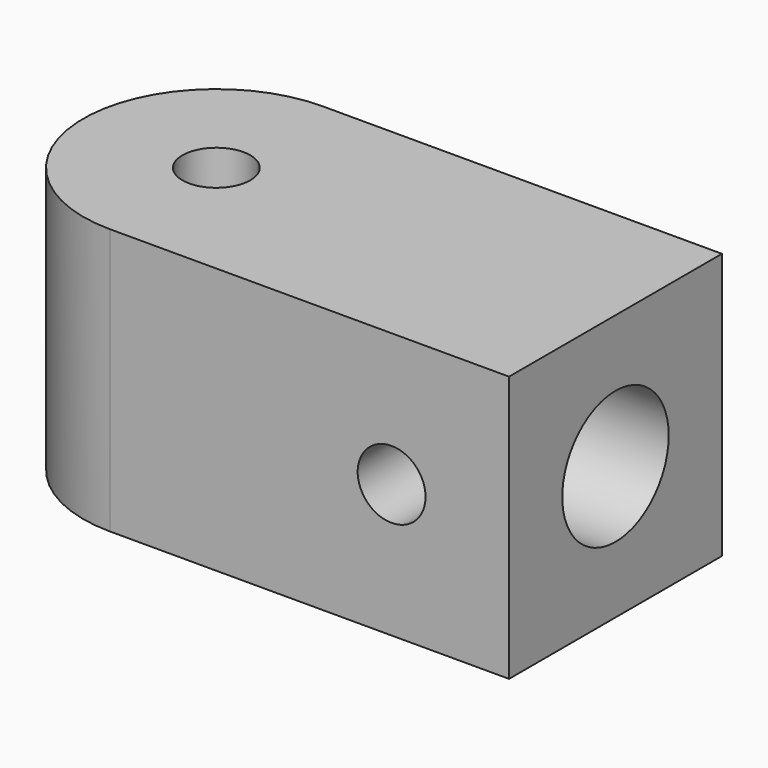
from build123d import *

# Parameters (mm, degrees)
SKETCH_R        = 2.55
PAD_DEPTH       = 20
SKETCH001_R     = 5
POCKET_DEPTH    = 15
SKETCH003_R     = 2.55
POCKET001_DEPTH = 20.001


with BuildPart() as part:
    # Sketch → Pad (new body)
    with BuildSketch(Plane.XY):
        with BuildLine():
            Line((-30, 10), (0, 10))
            Line((0, 10), (0, -10))
            Line((0, -10), (-30, -10))
            ThreePointArc((-30, 10), (-40, 0), (-30, -10))
        make_face()
        with Locations((-30, 0)):
            Circle(SKETCH_R, mode=Mode.SUBTRACT)
    extrude(amount=PAD_DEPTH)

    # Sketch001 (on Face2 of Pad) → Pocket (cut)
    with BuildSketch(Plane.YZ):
        with Locations((0, 10)):
            Circle(SKETCH001_R)
    extrude(amount=-POCKET_DEPTH, mode=Mode.SUBTRACT)

    # Sketch003 (on Face6 of Pocket) → Pocket001 (cut, through all)
    with BuildSketch(Plane.XZ.offset(10)):
        with Locations((-8.827239, 10)):
            Circle(SKETCH003_R)
    extrude(amount=-POCKET001_DEPTH, mode=Mode.SUBTRACT)


solid = part.part
